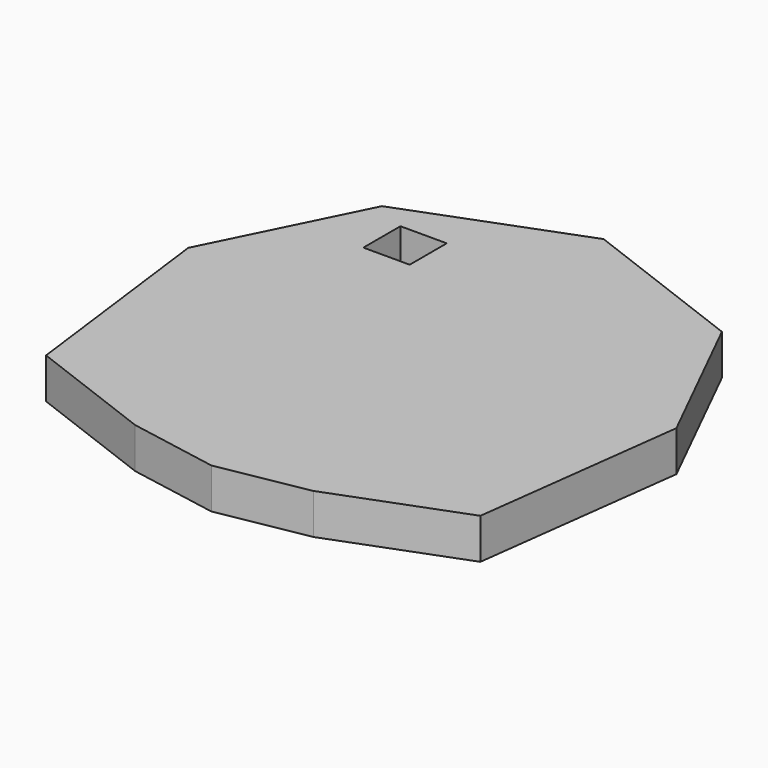
from build123d import *

# Parameters (mm, degrees)
F2_DEPTH = 3.5
F3_W     = 4
F3_H     = 4
F4_DEPTH = 3.501


with BuildPart() as f2:
    # F1 (on Top) → F2 (new body)
    with BuildSketch(Plane.XY):
        Polygon((-21.073485, 18.250337), (-18.75, 0), (-7.698772, -4.19592), (0, -5.591542), (7.698772, -4.19592), (18.75, 0), (21.073485, 18.250337), (14.676882, 31.159841), (0, 36.74233), (-14.676882, 31.159841), align=None)
    extrude(amount=F2_DEPTH)

    # F3 (on face) → F4 (cut, through all)
    with BuildSketch(Plane.XY.offset(3.5)):
        with Locations((-9.875183, 27.651085)):
            Rectangle(F3_W, F3_H)
    extrude(amount=-F4_DEPTH, mode=Mode.SUBTRACT)


solid = f2.part
